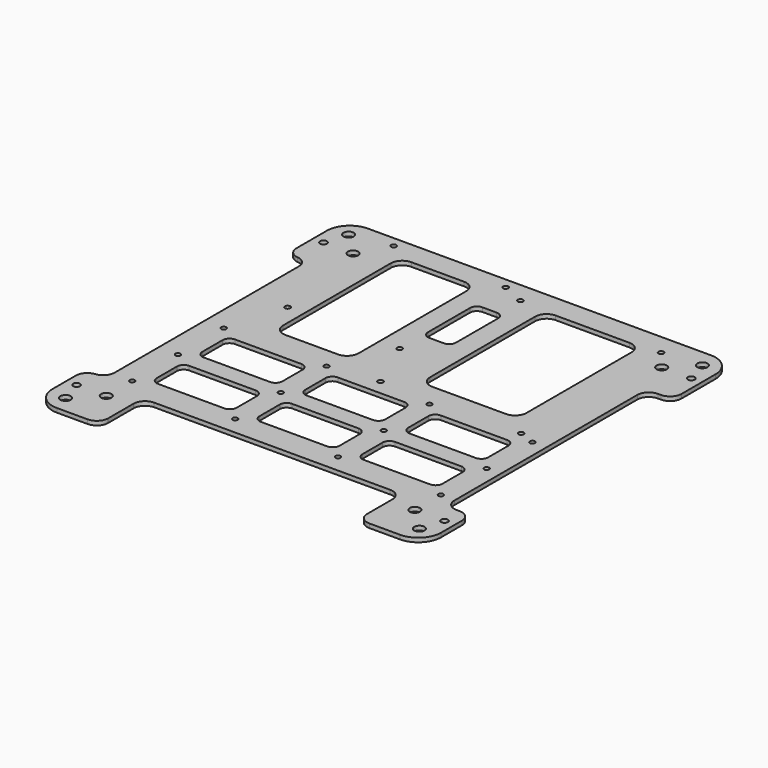
from build123d import *

# Parameters (mm, degrees)
F0_W     = 170
F0_H     = 170
F0_R     = 2.25
F0_R_2   = 1.5
F0_R_3   = 1.15
F1_DEPTH = 1.8
F2_R     = 10
F3_R     = 1.1
F4_DEPTH = 25
F5_R     = 5


with BuildPart() as f1:
    # F0 (on Top) → F1 (new body)
    with BuildSketch(Plane.XY):
        Rectangle(F0_W, F0_H)
        with Locations((-77.372583002, -77.372583002)):
            Circle(F0_R, mode=Mode.SUBTRACT)
        with Locations((-80.4481506348, -67.4730880654)):
            Circle(F0_R_2, mode=Mode.SUBTRACT)
        with Locations((-67.4730880654, -67.4730880654)):
            Circle(F0_R, mode=Mode.SUBTRACT)
        with Locations((-1.0299040824, -0.6073869467)):
            Circle(F0_R_3, mode=Mode.SUBTRACT)
        with Locations((77.372583002, -77.372583002)):
            Circle(F0_R, mode=Mode.SUBTRACT)
        with Locations((67.4730880654, -67.4730880654)):
            Circle(F0_R, mode=Mode.SUBTRACT)
        with Locations((80.4481506348, -67.4730880654)):
            Circle(F0_R_2, mode=Mode.SUBTRACT)
        with Locations((60.4700959176, -0.6073869467)):
            Circle(F0_R_3, mode=Mode.SUBTRACT)
        with Locations((-60.104801029, 22.4334253967)):
            Circle(F0_R_3, mode=Mode.SUBTRACT)
        with Locations((-11.104801029, 22.4334253967)):
            Circle(F0_R_3, mode=Mode.SUBTRACT)
        with Locations((-80.4481506348, 67.4730880654)):
            Circle(F0_R_2, mode=Mode.SUBTRACT)
        with Locations((-67.4730880654, 67.4730880654)):
            Circle(F0_R, mode=Mode.SUBTRACT)
        with Locations((-77.372583002, 77.372583002)):
            Circle(F0_R, mode=Mode.SUBTRACT)
        with Locations((-60.104801029, 80.4334253967)):
            Circle(F0_R_3, mode=Mode.SUBTRACT)
        with Locations((-11.104801029, 80.4334253967)):
            Circle(F0_R_3, mode=Mode.SUBTRACT)
        with Locations((-1.0299040824, 75.8926130533)):
            Circle(F0_R_3, mode=Mode.SUBTRACT)
        with Locations((60.4700959176, 75.8926130533)):
            Circle(F0_R_3, mode=Mode.SUBTRACT)
        with Locations((67.4730880654, 67.4730880654)):
            Circle(F0_R, mode=Mode.SUBTRACT)
        with Locations((80.4481506348, 67.4730880654)):
            Circle(F0_R_2, mode=Mode.SUBTRACT)
        with Locations((77.372583002, 77.372583002)):
            Circle(F0_R, mode=Mode.SUBTRACT)
    extrude(amount=F1_DEPTH)

    # F2
    f2_edges = [f1.edges().sort_by_distance(p)[0] for p in [
        (-85, 85, 0.9),
        (85, 85, 0.9),
        (85, -85, 0.9),
        (-85, -85, 0.9),
    ]]
    fillet(f2_edges, radius=F2_R)

    # F3 (on Top) → F4 (cut)
    with BuildSketch(Plane.XY):
        with BuildLine():
            ThreePointArc((10.2411722764, 12.3589439295), (11.7056383705, 8.8234100236), (15.2411722764, 7.3589439295))
            Line((15.2411722764, 7.3589439295), (28.1023554882, 7.3589439295))
            Line((28.1023554882, 7.3589439295), (47.44750157, 7.3589439295))
            ThreePointArc((47.44750157, 7.3589439295), (50.9830354759, 8.8234100236), (52.44750157, 12.3589439295))
            Line((52.44750157, 12.3589439295), (52.44750157, 69.8297755122))
            ThreePointArc((52.44750157, 69.8297755122), (50.9830354759, 73.3653094182), (47.44750157, 74.8297755122))
            Line((47.44750157, 74.8297755122), (15.2411722764, 74.8297755122))
            ThreePointArc((15.2411722764, 74.8297755122), (11.7056383705, 73.3653094182), (10.2411722764, 69.8297755122))
            Line((10.2411722764, 69.8297755122), (10.2411722764, 30.1672805846))
            Line((10.2411722764, 30.1672805846), (10.2411722764, 12.3589439295))
        make_face()
        with Locations((-67.4768984318, -53.2906390727)):
            Circle(F3_R)
        with Locations((-67.4768984318, -28.2906390727)):
            Circle(F3_R)
        with BuildLine():
            Line((-30.2475257516, -32.4090123177), (-59.2478052974, -32.4090123177))
            ThreePointArc((-59.2478052974, -32.4090123177), (-61.3691256409, -33.2876919741), (-62.2478052974, -35.4090123177))
            Line((-62.2478052974, -35.4090123177), (-62.2478052974, -46.4793243706))
            ThreePointArc((-62.2478052974, -46.4793243706), (-61.3691256409, -48.6006447142), (-59.2478052974, -49.4793243706))
            Line((-59.2478052974, -49.4793243706), (-30.2475257516, -49.4793243706))
            ThreePointArc((-30.2475257516, -49.4793243706), (-28.126205408, -48.6006447142), (-27.2475257516, -46.4793243706))
            Line((-27.2475257516, -46.4793243706), (-27.2475257516, -35.4090123177))
            ThreePointArc((-27.2475257516, -35.4090123177), (-28.126205408, -33.2876919741), (-30.2475257516, -32.4090123177))
        make_face()
        with BuildLine():
            Line((-27.2475257516, -21.4793243706), (-27.2475257516, -10.4090123177))
            ThreePointArc((-27.2475257516, -10.4090123177), (-28.126205408, -8.2876919741), (-30.2475257516, -7.4090123177))
            Line((-30.2475257516, -7.4090123177), (-59.2478052974, -7.4090123177))
            ThreePointArc((-59.2478052974, -7.4090123177), (-61.3691256409, -8.2876919741), (-62.2478052974, -10.4090123177))
            Line((-62.2478052974, -10.4090123177), (-62.2478052974, -21.4793243706))
            ThreePointArc((-62.2478052974, -21.4793243706), (-61.3691256409, -23.6006447142), (-59.2478052974, -24.4793243706))
            Line((-59.2478052974, -24.4793243706), (-30.2475257516, -24.4793243706))
            ThreePointArc((-30.2475257516, -24.4793243706), (-28.126205408, -23.6006447142), (-27.2475257516, -21.4793243706))
        make_face()
        with Locations((-67.4768984318, -3.2906390727)):
            Circle(F3_R)
        with BuildLine():
            Line((17.7524742484, -46.4793243706), (17.7524742484, -35.4090123177))
            ThreePointArc((17.7524742484, -35.4090123177), (16.873794592, -33.2876919741), (14.7524742484, -32.4090123177))
            Line((14.7524742484, -32.4090123177), (-14.2478052974, -32.4090123177))
            ThreePointArc((-14.2478052974, -32.4090123177), (-16.3691256409, -33.2876919741), (-17.2478052974, -35.4090123177))
            Line((-17.2478052974, -35.4090123177), (-17.2478052974, -46.4793243706))
            ThreePointArc((-17.2478052974, -46.4793243706), (-16.3691256409, -48.6006447142), (-14.2478052974, -49.4793243706))
            Line((-14.2478052974, -49.4793243706), (14.7524742484, -49.4793243706))
            ThreePointArc((14.7524742484, -49.4793243706), (16.873794592, -48.6006447142), (17.7524742484, -46.4793243706))
        make_face()
        with Locations((-22.4768984318, -28.2906390727)):
            Circle(F3_R)
        with Locations((-22.4768984318, -53.2906390727)):
            Circle(F3_R)
        with BuildLine():
            Line((17.7524742484, -21.4793243706), (17.7524742484, -10.4090123177))
            ThreePointArc((17.7524742484, -10.4090123177), (16.873794592, -8.2876919741), (14.7524742484, -7.4090123177))
            Line((14.7524742484, -7.4090123177), (-14.2478052974, -7.4090123177))
            ThreePointArc((-14.2478052974, -7.4090123177), (-16.3691256409, -8.2876919741), (-17.2478052974, -10.4090123177))
            Line((-17.2478052974, -10.4090123177), (-17.2478052974, -21.4793243706))
            ThreePointArc((-17.2478052974, -21.4793243706), (-16.3691256409, -23.6006447142), (-14.2478052974, -24.4793243706))
            Line((-14.2478052974, -24.4793243706), (14.7524742484, -24.4793243706))
            ThreePointArc((14.7524742484, -24.4793243706), (16.873794592, -23.6006447142), (17.7524742484, -21.4793243706))
        make_face()
        with Locations((-22.4768984318, -3.2906390727)):
            Circle(F3_R)
        with BuildLine():
            Line((62.7524742484, -46.4793243706), (62.7524742484, -35.4090123177))
            ThreePointArc((62.7524742484, -35.4090123177), (61.873794592, -33.2876919741), (59.7524742484, -32.4090123177))
            Line((59.7524742484, -32.4090123177), (30.7521947026, -32.4090123177))
            ThreePointArc((30.7521947026, -32.4090123177), (28.6308743591, -33.2876919741), (27.7521947026, -35.4090123177))
            Line((27.7521947026, -35.4090123177), (27.7521947026, -46.4793243706))
            ThreePointArc((27.7521947026, -46.4793243706), (28.6308743591, -48.6006447142), (30.7521947026, -49.4793243706))
            Line((30.7521947026, -49.4793243706), (59.7524742484, -49.4793243706))
            ThreePointArc((59.7524742484, -49.4793243706), (61.873794592, -48.6006447142), (62.7524742484, -46.4793243706))
        make_face()
        with Locations((22.5231015682, -28.2906390727)):
            Circle(F3_R)
        with Locations((22.5231015682, -53.2906390727)):
            Circle(F3_R)
        with BuildLine():
            Line((62.7524742484, -21.4793243706), (62.7524742484, -10.4090123177))
            ThreePointArc((62.7524742484, -10.4090123177), (61.873794592, -8.2876919741), (59.7524742484, -7.4090123177))
            Line((59.7524742484, -7.4090123177), (30.7521947026, -7.4090123177))
            ThreePointArc((30.7521947026, -7.4090123177), (28.6308743591, -8.2876919741), (27.7521947026, -10.4090123177))
            Line((27.7521947026, -10.4090123177), (27.7521947026, -21.4793243706))
            ThreePointArc((27.7521947026, -21.4793243706), (28.6308743591, -23.6006447142), (30.7521947026, -24.4793243706))
            Line((30.7521947026, -24.4793243706), (59.7524742484, -24.4793243706))
            ThreePointArc((59.7524742484, -24.4793243706), (61.873794592, -23.6006447142), (62.7524742484, -21.4793243706))
        make_face()
        with Locations((22.5231015682, -3.2906390727)):
            Circle(F3_R)
        with Locations((67.5231015682, -28.2906390727)):
            Circle(F3_R)
        with Locations((67.5231015682, -53.2906390727)):
            Circle(F3_R)
        with Locations((67.5231015682, -3.2906390727)):
            Circle(F3_R)
        with BuildLine():
            ThreePointArc((-47.8923273087, 74.8297755122), (-51.4278612146, 73.3653094182), (-52.8923273087, 69.8297755122))
            Line((-52.8923273087, 69.8297755122), (-52.8923273087, 10.9389770031))
            ThreePointArc((-52.8923273087, 10.9389770031), (-51.4278612146, 7.4034430972), (-47.8923273087, 5.9389770031))
            Line((-47.8923273087, 5.9389770031), (-24.8795362376, 5.9389770031))
            ThreePointArc((-24.8795362376, 5.9389770031), (-21.3440023316, 7.4034430972), (-19.8795362376, 10.9389770031))
            Line((-19.8795362376, 10.9389770031), (-19.8795362376, 69.8297755122))
            ThreePointArc((-19.8795362376, 69.8297755122), (-21.3440023316, 73.3653094182), (-24.8795362376, 74.8297755122))
            Line((-24.8795362376, 74.8297755122), (-47.8923273087, 74.8297755122))
        make_face()
        with BuildLine():
            Line((-8.1178681254, 34.9419489503), (-1.8370714709, 34.9419489503))
            ThreePointArc((-1.8370714709, 34.9419489503), (0.2842488726, 35.8206286067), (1.1629285291, 37.9419489503))
            Line((1.1629285291, 37.9419489503), (1.1629285291, 60.9246478677))
            ThreePointArc((1.1629285291, 60.9246478677), (0.2842488726, 63.0459682112), (-1.8370714709, 63.9246478677))
            Line((-1.8370714709, 63.9246478677), (-8.1178681254, 63.9246478677))
            ThreePointArc((-8.1178681254, 63.9246478677), (-10.239188469, 63.0459682112), (-11.1178681254, 60.9246478677))
            Line((-11.1178681254, 60.9246478677), (-11.1178681254, 37.9419489503))
            ThreePointArc((-11.1178681254, 37.9419489503), (-10.239188469, 35.8206286067), (-8.1178681254, 34.9419489503))
        make_face()
        with BuildLine():
            ThreePointArc((-75.9924128652, 48.3975323197), (-77.4568789592, 51.9330662256), (-80.9924128652, 53.3975323197))
            Line((-80.9924128652, 53.3975323197), (-120.5225415408, 53.3975323197))
            Line((-120.5225415408, 53.3975323197), (-120.5225415408, -57.2530832142))
            Line((-120.5225415408, -57.2530832142), (-80.9924128652, -57.2530832142))
            ThreePointArc((-80.9924128652, -57.2530832142), (-77.4568789592, -55.7886171201), (-75.9924128652, -52.2530832142))
            Line((-75.9924128652, -52.2530832142), (-75.9924128652, 48.3975323197))
        make_face()
        with BuildLine():
            Line((100.2484560013, 51.409031963), (78.6684203148, 51.409031963))
            ThreePointArc((78.6684203148, 51.409031963), (75.1328864089, 49.9445658689), (73.6684203148, 46.409031963))
            Line((73.6684203148, 46.409031963), (73.6684203148, -53.6282261647))
            ThreePointArc((73.6684203148, -53.6282261647), (75.1328864089, -57.1637600707), (78.6684203148, -58.6282261647))
            Line((78.6684203148, -58.6282261647), (100.2484560013, -58.6282261647))
            Line((100.2484560013, -58.6282261647), (100.2484560013, 51.409031963))
        make_face()
        with BuildLine():
            Line((-56.6139928997, -98.8734811544), (56.6139928997, -98.8734811544))
            Line((56.6139928997, -98.8734811544), (56.6139928997, -66.1356794834))
            ThreePointArc((56.6139928997, -66.1356794834), (55.1495268056, -62.6001455775), (51.6139928997, -61.1356794834))
            Line((51.6139928997, -61.1356794834), (-51.6139928997, -61.1356794834))
            ThreePointArc((-51.6139928997, -61.1356794834), (-55.1495268056, -62.6001455775), (-56.6139928997, -66.1356794834))
            Line((-56.6139928997, -66.1356794834), (-56.6139928997, -98.8734811544))
        make_face()
    extrude(amount=F4_DEPTH, mode=Mode.SUBTRACT)

    # F5
    f5_edges = [f1.edges().sort_by_distance(p)[0] for p in [
        (85, 51.409032, 0.9),
        (85, -58.628226, 0.9),
        (-85, -57.253083, 0.9),
        (-85, 53.397532, 0.9),
        (-56.613993, -85, 0.9),
        (56.613993, -85, 0.9),
    ]]
    fillet(f5_edges, radius=F5_R)


solid = f1.part
